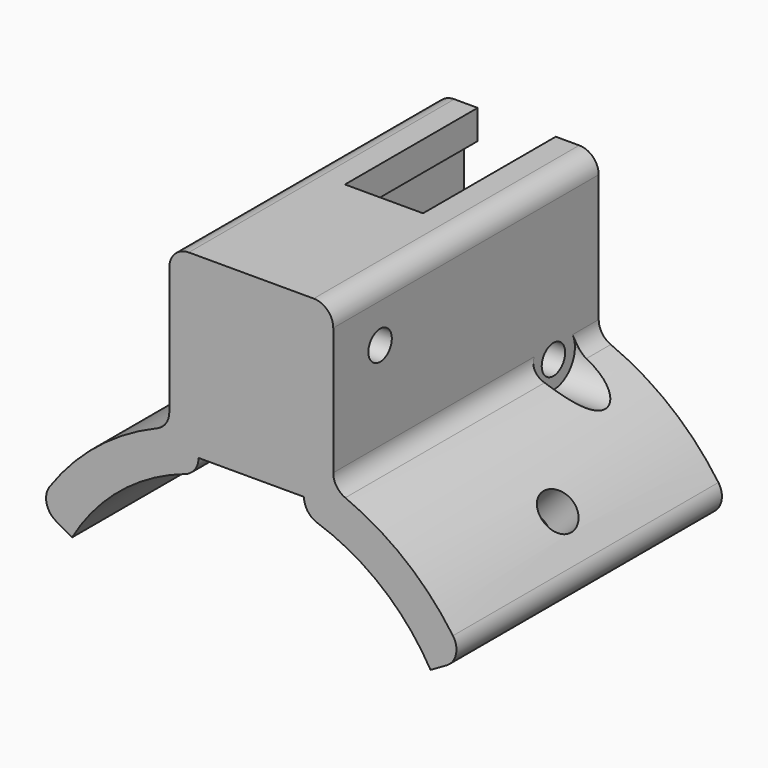
from build123d import *

# Parameters (mm, degrees)
F1_DEPTH  = 17
F2_W      = 10.8
F2_H      = 15.2113255547
F3_DEPTH  = 3
F4_R      = 1.5
F5_DEPTH  = 20
F8_R      = 2
F9_DEPTH  = 43.2998466183
F11_R     = 2
F12_DEPTH = 43.2998466183
F15_DEPTH = 25
F17_DEPTH = 25
F13_W     = 8
F13_H     = 17
F18_DEPTH = 25


with BuildPart() as f1:
    # F0 (on Front) → F1 (new body, symmetric)
    with BuildSketch(Plane.XZ):
        with BuildLine():
            ThreePointArc((6.7623163428, 20.1020585682), (13.4323577243, 16.4132095267), (18.3675327889, 10.6045))
            Line((18.3675327889, 10.6045), (20.0248161228, 11.5613329789))
            ThreePointArc((20.0248161228, 11.5613329789), (20.9771944934, 12.8595419977), (20.6642504907, 14.4389207581))
            ThreePointArc((20.6642504907, 14.4389207581), (15.7837350444, 19.6562302858), (9.6355470616, 23.2948473664))
            ThreePointArc((9.6355470616, 23.2948473664), (8.7373355906, 24.0314330814), (8.4, 25.1429847274))
            Line((8.4, 25.1429847274), (8.4, 38.209))
            ThreePointArc((8.4, 38.209), (7.8142135624, 39.6232135624), (6.4, 40.209))
            Line((6.4, 40.209), (-6.4, 40.209))
            ThreePointArc((-6.4, 40.209), (-7.8142135624, 39.6232135624), (-8.4, 38.209))
            Line((-8.4, 38.209), (-8.4, 25.1429847274))
            ThreePointArc((-8.4, 25.1429847274), (-8.7373355906, 24.0314330814), (-9.6355470616, 23.2948473664))
            ThreePointArc((-9.6355470616, 23.2948473664), (-15.7837350444, 19.6562302858), (-20.6642504907, 14.4389207581))
            ThreePointArc((-20.6642504907, 14.4389207581), (-20.9771944934, 12.8595419977), (-20.0248161228, 11.5613329789))
            Line((-20.0248161228, 11.5613329789), (-18.3675327889, 10.6045))
            ThreePointArc((-18.3675327889, 10.6045), (-13.4323577243, 16.4132095267), (-6.7623163428, 20.1020585682))
            ThreePointArc((-6.7623163428, 20.1020585682), (-5.7759052807, 20.830491365), (-5.4, 21.9976744453))
            Line((-5.4, 21.9976744453), (-5.4, 37.209))
            Line((-5.4, 37.209), (5.4, 37.209))
            Line((5.4, 37.209), (5.4, 21.9976744453))
            ThreePointArc((5.4, 21.9976744453), (5.7759052807, 20.830491365), (6.7623163428, 20.1020585682))
        make_face()
    extrude(amount=F1_DEPTH, both=True)

    # F2 (on face) → F3 (join)
    with BuildSketch(Plane.XZ.offset(17)):
        with Locations((0, 29.6033372226)):
            Rectangle(F2_W, F2_H)
    extrude(amount=-F3_DEPTH)

    # F4 (on face) → F5 (cut, symmetric)
    with BuildSketch(Plane(origin=(5.4, 0, 0), x_dir=(0, -1, 0), z_dir=(-1, 0, 0))):
        with Locations((-11.2, 23.909)):
            Circle(F4_R)
        with Locations((11, 34.209)):
            Circle(F4_R)
    extrude(amount=F5_DEPTH, both=True, mode=Mode.SUBTRACT)

    # F8 (on line) → F9 (cut, through all)
    with BuildSketch(Plane(origin=(0, 0, 0), x_dir=(0.7071067812, 0, 0.7071067812), z_dir=(0.7071067812, 0, -0.7071067812))):
        Circle(F8_R)
    extrude(amount=-F9_DEPTH, mode=Mode.SUBTRACT)

    # F11 (on line) → F12 (cut, through all)
    with BuildSketch(Plane(origin=(0, 0, 0), x_dir=(0, 1, 0), z_dir=(0.7071067812, 0, 0.7071067812))):
        Circle(F11_R)
    extrude(amount=F12_DEPTH, mode=Mode.SUBTRACT)

    # F14 (on face) → F15 (cut)
    with BuildSketch(Plane.YZ.offset(8.4)):
        with BuildLine():
            Line((12.0528081218, 25.1429847274), (13.6575967311, 25.1429847274))
            ThreePointArc((13.6575967311, 25.1429847274), (11.2, 26.659), (8.7424032689, 25.1429847274))
            Line((8.7424032689, 25.1429847274), (10.3471918782, 25.1429847274))
            ThreePointArc((10.3471918782, 25.1429847274), (11.2, 25.409), (12.0528081218, 25.1429847274))
        make_face()
        with BuildLine():
            ThreePointArc((8.7424032689, 25.1429847274), (10.5659223275, 21.2330991227), (13.95, 23.909))
            ThreePointArc((13.95, 23.909), (13.8759008773, 24.5430776725), (13.6575967311, 25.1429847274))
            Line((13.6575967311, 25.1429847274), (12.0528081218, 25.1429847274))
            ThreePointArc((12.0528081218, 25.1429847274), (11.2, 25.409), (10.3471918782, 25.1429847274))
            Line((10.3471918782, 25.1429847274), (8.7424032689, 25.1429847274))
        make_face()
    extrude(amount=F15_DEPTH, mode=Mode.SUBTRACT)

    # F16 (on face) → F17 (cut)
    with BuildSketch(Plane(origin=(-8.4, 0, 0), x_dir=(0, -1, 0), z_dir=(-1, 0, 0))):
        with BuildLine():
            Line((-12.0528081218, 25.1429847274), (-13.9516602006, 25.1429847274))
            Line((-13.9516602006, 25.1429847274), (-14.6641016151, 23.909))
            Line((-14.6641016151, 23.909), (-12.9320508076, 20.909))
            Line((-12.9320508076, 20.909), (-9.4679491924, 20.909))
            Line((-9.4679491924, 20.909), (-7.7358983849, 23.909))
            Line((-7.7358983849, 23.909), (-8.4483397994, 25.1429847274))
            Line((-8.4483397994, 25.1429847274), (-10.3471918782, 25.1429847274))
            ThreePointArc((-10.3471918782, 25.1429847274), (-11.2, 25.409), (-12.0528081218, 25.1429847274))
        make_face()
    extrude(amount=F17_DEPTH, mode=Mode.SUBTRACT)

    # F13 (on face) → F18 (cut)
    with BuildSketch(Plane.XY.offset(40.209)):
        with Locations((0, 8.5)):
            Rectangle(F13_W, F13_H)
    extrude(amount=-F18_DEPTH, mode=Mode.SUBTRACT)


solid = f1.part
